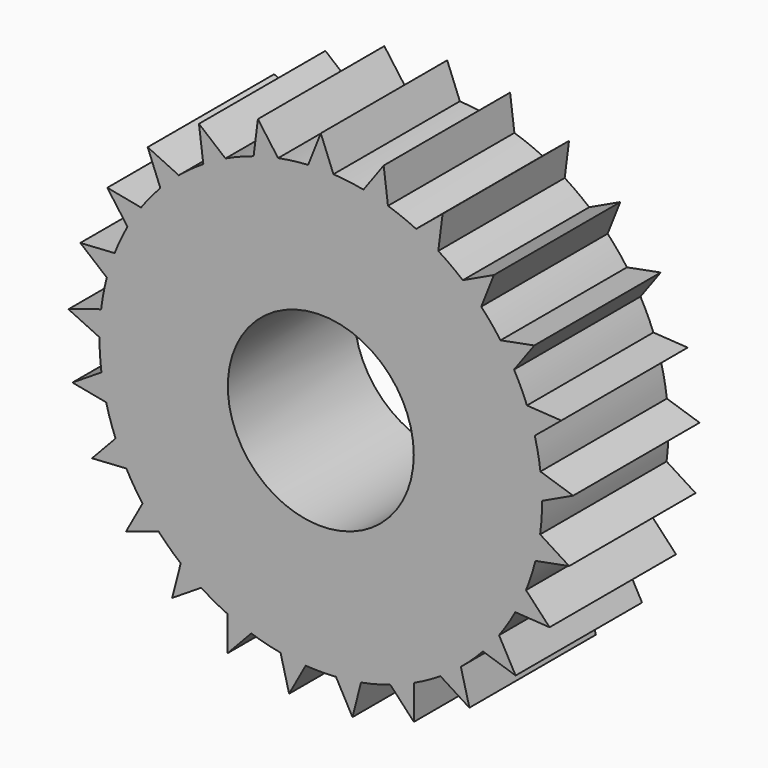
from build123d import *

# Parameters (mm, degrees)
F1_DEPTH = 25
F2_R     = 14.710465
F3_DEPTH = 123


with BuildPart() as f1:
    # F0 (on Front) → F1 (new body)
    with BuildSketch(Plane.XZ):
        with BuildLine():
            ThreePointArc((34.69864, -4.583055), (34.924579, -2.296476), (35, 0))
            ThreePointArc((35, 0), (34.99986, 0.099012), (34.99944, 0.198024))
            ThreePointArc((34.99944, 0.198024), (34.930935, 2.197668), (34.748278, 4.190131))
            ThreePointArc((34.748278, 4.190131), (34.380054, 6.558346), (33.850622, 8.895809))
            ThreePointArc((33.850622, 8.895809), (33.286978, 10.815595), (32.614554, 12.700035))
            ThreePointArc((32.614554, 12.700035), (31.668947, 14.902275), (30.574844, 17.034638))
            ThreePointArc((30.574844, 17.034638), (29.551477, 18.753938), (28.431537, 20.41195))
            ThreePointArc((28.431537, 20.41195), (26.967963, 22.30984), (25.377937, 24.103118))
            ThreePointArc((25.377937, 24.103118), (23.959149, 25.513902), (22.462062, 26.841307))
            ThreePointArc((22.462062, 26.841307), (20.572484, 28.315595), (18.586441, 29.657111))
            ThreePointArc((18.586441, 29.657111), (16.861379, 30.670734), (15.081214, 31.584126))
            ThreePointArc((15.081214, 31.584126), (12.884359, 32.542177), (10.62709, 33.347638))
            ThreePointArc((10.62709, 33.347638), (8.704146, 33.900411), (6.752757, 34.342398))
            ThreePointArc((6.752757, 34.342398), (4.386663, 34.724015), (2, 34.94281))
            ThreePointArc((2, 34.94281), (0, 35), (-2, 34.94281))
            ThreePointArc((-2, 34.94281), (-4.386663, 34.724015), (-6.752757, 34.342398))
            ThreePointArc((-6.752757, 34.342398), (-8.704146, 33.900411), (-10.62709, 33.347638))
            ThreePointArc((-10.62709, 33.347638), (-12.884359, 32.542177), (-15.081214, 31.584126))
            ThreePointArc((-15.081214, 31.584126), (-16.861379, 30.670734), (-18.586441, 29.657111))
            ThreePointArc((-18.586441, 29.657111), (-20.572484, 28.315595), (-22.462062, 26.841307))
            ThreePointArc((-22.462062, 26.841307), (-23.959149, 25.513902), (-25.377937, 24.103118))
            ThreePointArc((-25.377937, 24.103118), (-26.967963, 22.30984), (-28.431537, 20.41195))
            ThreePointArc((-28.431537, 20.41195), (-29.551477, 18.753938), (-30.574844, 17.034638))
            ThreePointArc((-30.574844, 17.034638), (-31.668947, 14.902275), (-32.614554, 12.700035))
            ThreePointArc((-32.614554, 12.700035), (-33.286978, 10.815595), (-33.850622, 8.895809))
            ThreePointArc((-33.850622, 8.895809), (-34.380054, 6.558346), (-34.748278, 4.190131))
            ThreePointArc((-34.748278, 4.190131), (-34.930935, 2.197668), (-34.99944, 0.198024))
            ThreePointArc((-34.99944, 0.198024), (-34.930935, -2.197668), (-34.69864, -4.583055))
            ThreePointArc((-34.69864, -4.583055), (-34.380054, -6.558346), (-33.949115, -8.512204))
            ThreePointArc((-33.949115, -8.512204), (-33.286978, -10.815595), (-32.468759, -13.068271))
            ThreePointArc((-32.468759, -13.068271), (-31.668947, -14.902275), (-30.765642, -16.687579))
            ThreePointArc((-30.765642, -16.687579), (-29.551477, -18.753938), (-28.198746, -20.732359))
            ThreePointArc((-28.198746, -20.732359), (-26.967963, -22.30984), (-25.64905, -23.814412))
            ThreePointArc((-25.64905, -23.814412), (-23.959149, -25.513902), (-22.156903, -27.093757))
            ThreePointArc((-22.156903, -27.093757), (-20.572484, -28.315595), (-18.920835, -29.444898))
            ThreePointArc((-18.920835, -29.444898), (-16.861379, -30.670734), (-14.722859, -31.752754))
            ThreePointArc((-14.722859, -31.752754), (-12.884359, -32.542177), (-11.003753, -33.225253))
            ThreePointArc((-11.003753, -33.225253), (-8.704146, -33.900411), (-6.363725, -34.416609))
            ThreePointArc((-6.363725, -34.416609), (-4.386663, -34.724015), (-2.395266, -34.917942))
            ThreePointArc((-2.395266, -34.917942), (0, -35), (2.395266, -34.917942))
            ThreePointArc((2.395266, -34.917942), (4.386663, -34.724015), (6.363725, -34.416609))
            ThreePointArc((6.363725, -34.416609), (8.704146, -33.900411), (11.003753, -33.225253))
            ThreePointArc((11.003753, -33.225253), (12.884359, -32.542177), (14.722859, -31.752754))
            ThreePointArc((14.722859, -31.752754), (16.861379, -30.670734), (18.920835, -29.444898))
            ThreePointArc((18.920835, -29.444898), (20.572484, -28.315595), (22.156903, -27.093757))
            ThreePointArc((22.156903, -27.093757), (23.959149, -25.513902), (25.64905, -23.814412))
            ThreePointArc((25.64905, -23.814412), (26.967963, -22.30984), (28.198746, -20.732359))
            ThreePointArc((28.198746, -20.732359), (29.551477, -18.753938), (30.765642, -16.687579))
            ThreePointArc((30.765642, -16.687579), (31.668947, -14.902275), (32.468759, -13.068271))
            ThreePointArc((32.468759, -13.068271), (33.286978, -10.815595), (33.949115, -8.512204))
            ThreePointArc((33.949115, -8.512204), (34.380054, -6.558346), (34.69864, -4.583055))
        make_face()
        with BuildLine():
            ThreePointArc((34.748278, 4.190131), (34.930935, 2.197668), (34.99944, 0.198024))
            Line((34.99944, 0.198024), (39.921069, 2.511621))
            Line((39.921069, 2.511621), (34.748278, 4.190131))
        make_face()
        with BuildLine():
            Line((39.29149, -7.495253), (34.69864, -4.583055))
            ThreePointArc((34.69864, -4.583055), (34.380054, -6.558346), (33.949115, -8.512204))
            Line((33.949115, -8.512204), (39.29149, -7.495253))
        make_face()
        with BuildLine():
            ThreePointArc((32.614554, 12.700035), (33.286978, 10.815595), (33.850622, 8.895809))
            Line((33.850622, 8.895809), (38.042261, 12.36068))
            Line((38.042261, 12.36068), (32.614554, 12.700035))
        make_face()
        with BuildLine():
            Line((36.193082, -17.031172), (32.468759, -13.068271))
            ThreePointArc((32.468759, -13.068271), (31.668947, -14.902275), (30.765642, -16.687579))
            Line((30.765642, -16.687579), (36.193082, -17.031172))
        make_face()
        with BuildLine():
            ThreePointArc((28.431537, 20.41195), (29.551477, 18.753938), (30.574844, 17.034638))
            Line((30.574844, 17.034638), (33.773117, 21.433072))
            Line((33.773117, 21.433072), (28.431537, 20.41195))
        make_face()
        with BuildLine():
            Line((30.82053, -25.49696), (28.198746, -20.732359))
            ThreePointArc((28.198746, -20.732359), (26.967963, -22.30984), (25.64905, -23.814412))
            Line((25.64905, -23.814412), (30.82053, -25.49696))
        make_face()
        with BuildLine():
            ThreePointArc((22.462062, 26.841307), (23.959149, 25.513902), (25.377937, 24.103118))
            Line((25.377937, 24.103118), (27.381884, 29.158745))
            Line((27.381884, 29.158745), (22.462062, 26.841307))
        make_face()
        with BuildLine():
            Line((23.51141, -32.36068), (22.156903, -27.093757))
            ThreePointArc((22.156903, -27.093757), (20.572484, -28.315595), (18.920835, -29.444898))
            Line((18.920835, -29.444898), (23.51141, -32.36068))
        make_face()
        with BuildLine():
            ThreePointArc((15.081214, 31.584126), (16.861379, 30.670734), (18.586441, 29.657111))
            Line((18.586441, 29.657111), (19.270147, 35.052267))
            Line((19.270147, 35.052267), (15.081214, 31.584126))
        make_face()
        with BuildLine():
            Line((14.724982, -37.191059), (14.722859, -31.752754))
            ThreePointArc((14.722859, -31.752754), (12.884359, -32.542177), (11.003753, -33.225253))
            Line((11.003753, -33.225253), (14.724982, -37.191059))
        make_face()
        with BuildLine():
            ThreePointArc((6.752757, 34.342398), (8.704146, 33.900411), (10.62709, 33.347638))
            Line((10.62709, 33.347638), (9.947595, 38.743326))
            Line((9.947595, 38.743326), (6.752757, 34.342398))
        make_face()
        with BuildLine():
            Line((5.013329, -39.684588), (6.363725, -34.416609))
            ThreePointArc((6.363725, -34.416609), (4.386663, -34.724015), (2.395266, -34.917942))
            Line((2.395266, -34.917942), (5.013329, -39.684588))
        make_face()
        with BuildLine():
            ThreePointArc((-2, 34.94281), (0, 35), (2, 34.94281))
            Line((2, 34.94281), (0, 40))
            Line((0, 40), (-2, 34.94281))
        make_face()
        with BuildLine():
            Line((-5.013329, -39.684588), (-2.395266, -34.917942))
            ThreePointArc((-2.395266, -34.917942), (-4.386663, -34.724015), (-6.363725, -34.416609))
            Line((-6.363725, -34.416609), (-5.013329, -39.684588))
        make_face()
        with BuildLine():
            ThreePointArc((-10.62709, 33.347638), (-8.704146, 33.900411), (-6.752757, 34.342398))
            Line((-6.752757, 34.342398), (-9.947595, 38.743326))
            Line((-9.947595, 38.743326), (-10.62709, 33.347638))
        make_face()
        with BuildLine():
            Line((-14.724982, -37.191059), (-11.003753, -33.225253))
            ThreePointArc((-11.003753, -33.225253), (-12.884359, -32.542177), (-14.722859, -31.752754))
            Line((-14.722859, -31.752754), (-14.724982, -37.191059))
        make_face()
        with BuildLine():
            ThreePointArc((-18.586441, 29.657111), (-16.861379, 30.670734), (-15.081214, 31.584126))
            Line((-15.081214, 31.584126), (-19.270147, 35.052267))
            Line((-19.270147, 35.052267), (-18.586441, 29.657111))
        make_face()
        with BuildLine():
            Line((-23.51141, -32.36068), (-18.920835, -29.444898))
            ThreePointArc((-18.920835, -29.444898), (-20.572484, -28.315595), (-22.156903, -27.093757))
            Line((-22.156903, -27.093757), (-23.51141, -32.36068))
        make_face()
        with BuildLine():
            ThreePointArc((-25.377937, 24.103118), (-23.959149, 25.513902), (-22.462062, 26.841307))
            Line((-22.462062, 26.841307), (-27.381884, 29.158745))
            Line((-27.381884, 29.158745), (-25.377937, 24.103118))
        make_face()
        with BuildLine():
            Line((-30.82053, -25.49696), (-25.64905, -23.814412))
            ThreePointArc((-25.64905, -23.814412), (-26.967963, -22.30984), (-28.198746, -20.732359))
            Line((-28.198746, -20.732359), (-30.82053, -25.49696))
        make_face()
        with BuildLine():
            ThreePointArc((-30.574844, 17.034638), (-29.551477, 18.753938), (-28.431537, 20.41195))
            Line((-28.431537, 20.41195), (-33.773117, 21.433072))
            Line((-33.773117, 21.433072), (-30.574844, 17.034638))
        make_face()
        with BuildLine():
            Line((-36.193082, -17.031172), (-30.765642, -16.687579))
            ThreePointArc((-30.765642, -16.687579), (-31.668947, -14.902275), (-32.468759, -13.068271))
            Line((-32.468759, -13.068271), (-36.193082, -17.031172))
        make_face()
        with BuildLine():
            ThreePointArc((-33.850622, 8.895809), (-33.286978, 10.815595), (-32.614554, 12.700035))
            Line((-32.614554, 12.700035), (-38.042261, 12.36068))
            Line((-38.042261, 12.36068), (-33.850622, 8.895809))
        make_face()
        with BuildLine():
            Line((-39.29149, -7.495253), (-33.949115, -8.512204))
            ThreePointArc((-33.949115, -8.512204), (-34.380054, -6.558346), (-34.69864, -4.583055))
            Line((-34.69864, -4.583055), (-39.29149, -7.495253))
        make_face()
        with BuildLine():
            ThreePointArc((-34.99944, 0.198024), (-34.930935, 2.197668), (-34.748278, 4.190131))
            Line((-34.748278, 4.190131), (-39.921069, 2.511621))
            Line((-39.921069, 2.511621), (-34.99944, 0.198024))
        make_face()
    extrude(amount=F1_DEPTH)

    # F2 (on face) → F3 (cut)
    with BuildSketch(Plane.XZ.offset(25)):
        Circle(F2_R)
    extrude(amount=-F3_DEPTH, mode=Mode.SUBTRACT)


solid = f1.part
